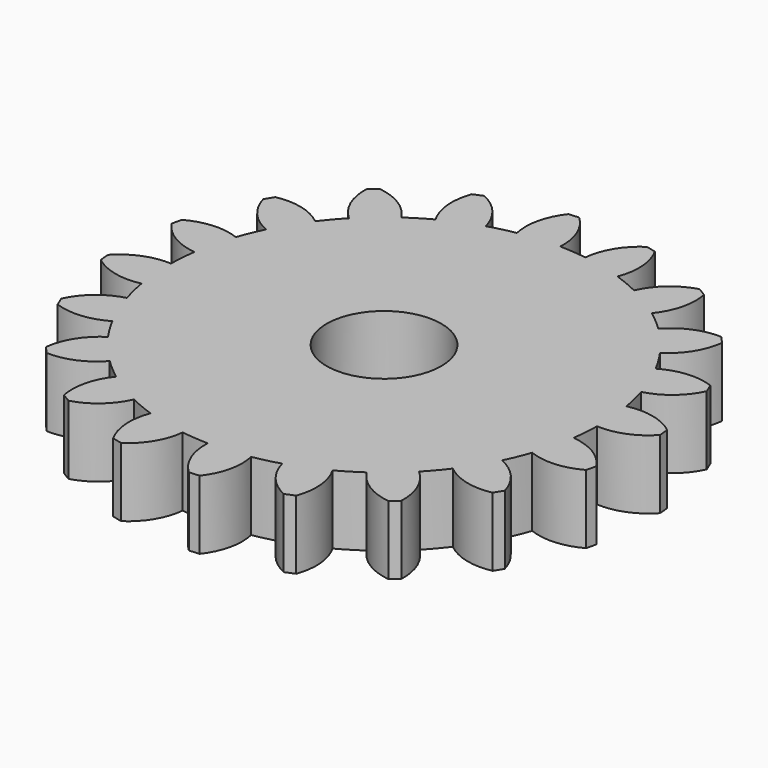
from build123d import *

# Parameters (mm, degrees)
F1_R     = 2.5
F2_DEPTH = 3


with BuildPart() as f2:
    # F1 (on Top) → F2 (new body)
    with BuildSketch(Plane.XY):
        with BuildLine():
            ThreePointArc((-1.6229776334, 9.2680599554), (-0.7382287643, 9.3800858219), (0.1531520845, 9.4078443957))
            ThreePointArc((0.1531520845, 9.4078443957), (-0.0317997207, 10.5374998224), (-0.6817601701, 11.4797736507))
            Line((-0.6817601701, 11.4797736507), (-1.1224656787, 11.4450893749))
            ThreePointArc((-1.1224656787, 11.4450893749), (-1.6170199342, 10.4127402859), (-1.6229776334, 9.2680599554))
        make_face()
        with BuildLine():
            ThreePointArc((9.4078443957, -0.1531520845), (9.4087792756, -0.0765785786), (9.4090909091, 0))
            ThreePointArc((9.4090909091, 0), (9.3737668631, 0.8145468262), (9.2680599554, 1.6229776334))
            ThreePointArc((9.2680599554, 1.6229776334), (9.1491169783, 2.1965086508), (8.9947183137, 2.7615275108))
            ThreePointArc((8.9947183137, 2.7615275108), (8.6928665104, 3.6007032045), (8.3129211438, 4.4075314852))
            ThreePointArc((8.3129211438, 4.4075314852), (8.0225688191, 4.9162364953), (7.7011265332, 5.4058895526))
            ThreePointArc((7.7011265332, 5.4058895526), (7.1547288581, 6.1107157275), (6.5440556911, 6.7606454461))
            ThreePointArc((6.5440556911, 6.7606454461), (6.1107157275, 7.1547288581), (5.6536948308, 7.52108546))
            ThreePointArc((5.6536948308, 7.52108546), (4.9162364953, 8.0225688191), (4.1346124722, 8.4519803265))
            ThreePointArc((4.1346124722, 8.4519803265), (3.6007032045, 8.6928665104), (3.0528400867, 8.90006512))
            ThreePointArc((3.0528400867, 8.90006512), (2.1965086508, 9.1491169783), (1.320444577, 9.3159764842))
            ThreePointArc((1.320444577, 9.3159764842), (0.7382287643, 9.3800858219), (0.1531520845, 9.4078443957))
            ThreePointArc((0.1531520845, 9.4078443957), (-0.7382287643, 9.3800858219), (-1.6229776334, 9.2680599554))
            ThreePointArc((-1.6229776334, 9.2680599554), (-2.1965086508, 9.1491169783), (-2.7615275108, 8.9947183137))
            ThreePointArc((-2.7615275108, 8.9947183137), (-3.6007032045, 8.6928665104), (-4.4075314852, 8.3129211438))
            ThreePointArc((-4.4075314852, 8.3129211438), (-4.9162364953, 8.0225688191), (-5.4058895526, 7.7011265332))
            ThreePointArc((-5.4058895526, 7.7011265332), (-6.1107157275, 7.1547288581), (-6.7606454461, 6.5440556911))
            ThreePointArc((-6.7606454461, 6.5440556911), (-7.1547288581, 6.1107157275), (-7.52108546, 5.6536948308))
            ThreePointArc((-7.52108546, 5.6536948308), (-8.0225688191, 4.9162364953), (-8.4519803265, 4.1346124722))
            ThreePointArc((-8.4519803265, 4.1346124722), (-8.6928665104, 3.6007032045), (-8.90006512, 3.0528400867))
            ThreePointArc((-8.90006512, 3.0528400867), (-9.1491169783, 2.1965086508), (-9.3159764842, 1.320444577))
            ThreePointArc((-9.3159764842, 1.320444577), (-9.3800858219, 0.7382287643), (-9.4078443957, 0.1531520845))
            ThreePointArc((-9.4078443957, 0.1531520845), (-9.3800858219, -0.7382287643), (-9.2680599554, -1.6229776334))
            ThreePointArc((-9.2680599554, -1.6229776334), (-9.1491169783, -2.1965086508), (-8.9947183137, -2.7615275108))
            ThreePointArc((-8.9947183137, -2.7615275108), (-8.6928665104, -3.6007032045), (-8.3129211438, -4.4075314852))
            ThreePointArc((-8.3129211438, -4.4075314852), (-8.0225688191, -4.9162364953), (-7.7011265332, -5.4058895526))
            ThreePointArc((-7.7011265332, -5.4058895526), (-7.1547288581, -6.1107157275), (-6.5440556911, -6.7606454461))
            ThreePointArc((-6.5440556911, -6.7606454461), (-6.1107157275, -7.1547288581), (-5.6536948308, -7.52108546))
            ThreePointArc((-5.6536948308, -7.52108546), (-4.9162364953, -8.0225688191), (-4.1346124722, -8.4519803265))
            ThreePointArc((-4.1346124722, -8.4519803265), (-3.6007032045, -8.6928665104), (-3.0528400867, -8.90006512))
            ThreePointArc((-3.0528400867, -8.90006512), (-2.1965086508, -9.1491169783), (-1.320444577, -9.3159764842))
            ThreePointArc((-1.320444577, -9.3159764842), (-0.7382287643, -9.3800858219), (-0.1531520845, -9.4078443957))
            ThreePointArc((-0.1531520845, -9.4078443957), (0.7382287643, -9.3800858219), (1.6229776334, -9.2680599554))
            ThreePointArc((1.6229776334, -9.2680599554), (2.1965086508, -9.1491169783), (2.7615275108, -8.9947183137))
            ThreePointArc((2.7615275108, -8.9947183137), (3.6007032045, -8.6928665104), (4.4075314852, -8.3129211438))
            ThreePointArc((4.4075314852, -8.3129211438), (4.9162364953, -8.0225688191), (5.4058895526, -7.7011265332))
            ThreePointArc((5.4058895526, -7.7011265332), (6.1107157275, -7.1547288581), (6.7606454461, -6.5440556911))
            ThreePointArc((6.7606454461, -6.5440556911), (7.1547288581, -6.1107157275), (7.52108546, -5.6536948308))
            ThreePointArc((7.52108546, -5.6536948308), (8.0225688191, -4.9162364953), (8.4519803265, -4.1346124722))
            ThreePointArc((8.4519803265, -4.1346124722), (8.6928665104, -3.6007032045), (8.90006512, -3.0528400867))
            ThreePointArc((8.90006512, -3.0528400867), (9.1491169783, -2.1965086508), (9.3159764842, -1.320444577))
            ThreePointArc((9.3159764842, -1.320444577), (9.3800858219, -0.7382287643), (9.4078443957, -0.1531520845))
        make_face()
        Circle(F1_R, mode=Mode.SUBTRACT)
        with BuildLine():
            ThreePointArc((-4.4075314852, 8.3129211438), (-3.6007032045, 8.6928665104), (-2.7615275108, 8.9947183137))
            ThreePointArc((-2.7615275108, 8.9947183137), (-3.286509855, 10.0119312174), (-4.195837602, 10.7072380574))
            Line((-4.195837602, 10.7072380574), (-4.604255417, 10.5380658593))
            ThreePointArc((-4.604255417, 10.5380658593), (-4.7555910517, 9.4034178615), (-4.4075314852, 8.3129211438))
        make_face()
        with BuildLine():
            ThreePointArc((-6.7606454461, 6.5440556911), (-6.1107157275, 7.1547288581), (-5.4058895526, 7.7011265332))
            ThreePointArc((-5.4058895526, 7.7011265332), (-6.2195135061, 8.5063250277), (-7.2991972152, 8.8866034014))
            Line((-7.2991972152, 8.8866034014), (-7.6353485554, 8.5995030343))
            ThreePointArc((-7.6353485554, 8.5995030343), (-7.428651783, 7.4736233793), (-6.7606454461, 6.5440556911))
        make_face()
        with BuildLine():
            ThreePointArc((-8.4519803265, 4.1346124722), (-8.0225688191, 4.9162364953), (-7.52108546, 5.6536948308))
            ThreePointArc((-7.52108546, 5.6536948308), (-8.5437078414, 6.1680604771), (-9.6880605486, 6.1960860878))
            Line((-9.6880605486, 6.1960860878), (-9.9190405786, 5.8191609361))
            ThreePointArc((-9.9190405786, 5.8191609361), (-9.3745443193, 4.812258569), (-8.4519803265, 4.1346124722))
        make_face()
        with BuildLine():
            ThreePointArc((-9.3159764842, 1.320444577), (-9.1491169783, 2.1965086508), (-8.90006512, 3.0528400867))
            ThreePointArc((-8.90006512, 3.0528400867), (-10.0315845257, 3.2260231917), (-11.1285890147, 2.8990526973))
            Line((-11.1285890147, 2.8990526973), (-11.2317877999, 2.469198821))
            ThreePointArc((-11.2317877999, 2.469198821), (-10.4027911413, 1.679836361), (-9.3159764842, 1.320444577))
        make_face()
        with BuildLine():
            ThreePointArc((-9.2680599554, -1.6229776334), (-9.3800858219, -0.7382287643), (-9.4078443957, 0.1531520845))
            ThreePointArc((-9.4078443957, 0.1531520845), (-10.5374998224, -0.0317997207), (-11.4797736507, -0.6817601701))
            Line((-11.4797736507, -0.6817601701), (-11.4450893749, -1.1224656787))
            ThreePointArc((-11.4450893749, -1.1224656787), (-10.4127402859, -1.6170199342), (-9.2680599554, -1.6229776334))
        make_face()
        with BuildLine():
            ThreePointArc((-10.5380658593, -4.604255417), (-9.4034178615, -4.7555910517), (-8.3129211438, -4.4075314852))
            ThreePointArc((-8.3129211438, -4.4075314852), (-8.6928665104, -3.6007032045), (-8.9947183137, -2.7615275108))
            ThreePointArc((-8.9947183137, -2.7615275108), (-10.0119312174, -3.286509855), (-10.7072380574, -4.195837602))
            Line((-10.7072380574, -4.195837602), (-10.5380658593, -4.604255417))
        make_face()
        with BuildLine():
            ThreePointArc((-8.5995030343, -7.6353485554), (-7.4736233793, -7.428651783), (-6.5440556911, -6.7606454461))
            ThreePointArc((-6.5440556911, -6.7606454461), (-7.1547288581, -6.1107157275), (-7.7011265332, -5.4058895526))
            ThreePointArc((-7.7011265332, -5.4058895526), (-8.5063250277, -6.2195135061), (-8.8866034014, -7.2991972152))
            Line((-8.8866034014, -7.2991972152), (-8.5995030343, -7.6353485554))
        make_face()
        with BuildLine():
            ThreePointArc((-5.8191609361, -9.9190405786), (-4.812258569, -9.3745443193), (-4.1346124722, -8.4519803265))
            ThreePointArc((-4.1346124722, -8.4519803265), (-4.9162364953, -8.0225688191), (-5.6536948308, -7.52108546))
            ThreePointArc((-5.6536948308, -7.52108546), (-6.1680604771, -8.5437078414), (-6.1960860878, -9.6880605486))
            Line((-6.1960860878, -9.6880605486), (-5.8191609361, -9.9190405786))
        make_face()
        with BuildLine():
            ThreePointArc((-2.469198821, -11.2317877999), (-1.679836361, -10.4027911413), (-1.320444577, -9.3159764842))
            ThreePointArc((-1.320444577, -9.3159764842), (-2.1965086508, -9.1491169783), (-3.0528400867, -8.90006512))
            ThreePointArc((-3.0528400867, -8.90006512), (-3.2260231917, -10.0315845257), (-2.8990526973, -11.1285890147))
            Line((-2.8990526973, -11.1285890147), (-2.469198821, -11.2317877999))
        make_face()
        with BuildLine():
            ThreePointArc((1.1224656787, -11.4450893749), (1.6170199342, -10.4127402859), (1.6229776334, -9.2680599554))
            ThreePointArc((1.6229776334, -9.2680599554), (0.7382287643, -9.3800858219), (-0.1531520845, -9.4078443957))
            ThreePointArc((-0.1531520845, -9.4078443957), (0.0317997207, -10.5374998224), (0.6817601701, -11.4797736507))
            Line((0.6817601701, -11.4797736507), (1.1224656787, -11.4450893749))
        make_face()
        with BuildLine():
            ThreePointArc((4.604255417, -10.5380658593), (4.7555910517, -9.4034178615), (4.4075314852, -8.3129211438))
            ThreePointArc((4.4075314852, -8.3129211438), (3.6007032045, -8.6928665104), (2.7615275108, -8.9947183137))
            ThreePointArc((2.7615275108, -8.9947183137), (3.286509855, -10.0119312174), (4.195837602, -10.7072380574))
            Line((4.195837602, -10.7072380574), (4.604255417, -10.5380658593))
        make_face()
        with BuildLine():
            ThreePointArc((7.6353485554, -8.5995030343), (7.428651783, -7.4736233793), (6.7606454461, -6.5440556911))
            ThreePointArc((6.7606454461, -6.5440556911), (6.1107157275, -7.1547288581), (5.4058895526, -7.7011265332))
            ThreePointArc((5.4058895526, -7.7011265332), (6.2195135061, -8.5063250277), (7.2991972152, -8.8866034014))
            Line((7.2991972152, -8.8866034014), (7.6353485554, -8.5995030343))
        make_face()
        with BuildLine():
            ThreePointArc((9.9190405786, -5.8191609361), (9.3745443193, -4.812258569), (8.4519803265, -4.1346124722))
            ThreePointArc((8.4519803265, -4.1346124722), (8.0225688191, -4.9162364953), (7.52108546, -5.6536948308))
            ThreePointArc((7.52108546, -5.6536948308), (8.5437078414, -6.1680604771), (9.6880605486, -6.1960860878))
            Line((9.6880605486, -6.1960860878), (9.9190405786, -5.8191609361))
        make_face()
        with BuildLine():
            ThreePointArc((11.2317877999, -2.469198821), (10.4027911413, -1.679836361), (9.3159764842, -1.320444577))
            ThreePointArc((9.3159764842, -1.320444577), (9.1491169783, -2.1965086508), (8.90006512, -3.0528400867))
            ThreePointArc((8.90006512, -3.0528400867), (10.0315845257, -3.2260231917), (11.1285890147, -2.8990526973))
            Line((11.1285890147, -2.8990526973), (11.2317877999, -2.469198821))
        make_face()
        with BuildLine():
            ThreePointArc((9.2680599554, 1.6229776334), (9.3737668631, 0.8145468262), (9.4090909091, 0))
            ThreePointArc((9.4090909091, 0), (9.4087792756, -0.0765785786), (9.4078443957, -0.1531520845))
            ThreePointArc((9.4078443957, -0.1531520845), (10.5374998224, 0.0317997207), (11.4797736507, 0.6817601701))
            Line((11.4797736507, 0.6817601701), (11.4450893749, 1.1224656787))
            ThreePointArc((11.4450893749, 1.1224656787), (10.4127402859, 1.6170199342), (9.2680599554, 1.6229776334))
        make_face()
        with BuildLine():
            ThreePointArc((8.3129211438, 4.4075314852), (8.6928665104, 3.6007032045), (8.9947183137, 2.7615275108))
            ThreePointArc((8.9947183137, 2.7615275108), (10.0119312174, 3.286509855), (10.7072380574, 4.195837602))
            Line((10.7072380574, 4.195837602), (10.5380658593, 4.604255417))
            ThreePointArc((10.5380658593, 4.604255417), (9.4034178615, 4.7555910517), (8.3129211438, 4.4075314852))
        make_face()
        with BuildLine():
            ThreePointArc((6.5440556911, 6.7606454461), (7.1547288581, 6.1107157275), (7.7011265332, 5.4058895526))
            ThreePointArc((7.7011265332, 5.4058895526), (8.5063250277, 6.2195135061), (8.8866034014, 7.2991972152))
            Line((8.8866034014, 7.2991972152), (8.5995030343, 7.6353485554))
            ThreePointArc((8.5995030343, 7.6353485554), (7.4736233793, 7.428651783), (6.5440556911, 6.7606454461))
        make_face()
        with BuildLine():
            ThreePointArc((4.1346124722, 8.4519803265), (4.9162364953, 8.0225688191), (5.6536948308, 7.52108546))
            ThreePointArc((5.6536948308, 7.52108546), (6.1680604771, 8.5437078414), (6.1960860878, 9.6880605486))
            Line((6.1960860878, 9.6880605486), (5.8191609361, 9.9190405786))
            ThreePointArc((5.8191609361, 9.9190405786), (4.812258569, 9.3745443193), (4.1346124722, 8.4519803265))
        make_face()
        with BuildLine():
            ThreePointArc((1.320444577, 9.3159764842), (2.1965086508, 9.1491169783), (3.0528400867, 8.90006512))
            ThreePointArc((3.0528400867, 8.90006512), (3.2260231917, 10.0315845257), (2.8990526973, 11.1285890147))
            Line((2.8990526973, 11.1285890147), (2.469198821, 11.2317877999))
            ThreePointArc((2.469198821, 11.2317877999), (1.679836361, 10.4027911413), (1.320444577, 9.3159764842))
        make_face()
    extrude(amount=F2_DEPTH)


solid = f2.part
